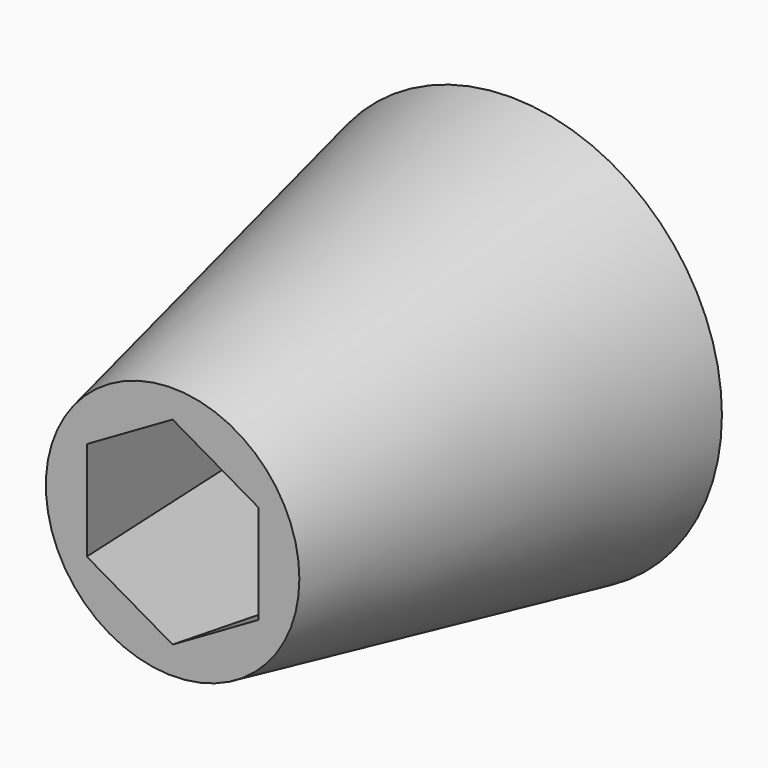
from build123d import *

# Parameters (mm, degrees)
F1_R = 63.5
F2_R = 38.1


with BuildPart() as f3:
    # F1 (on Front) → F3 section 0
    with BuildSketch(Plane.XZ):
        Circle(F1_R)
    # F2 (on offset) → F3 section 1
    with BuildSketch(Plane.XZ.offset(127)):
        Circle(F2_R)
    loft()

    # F5 (on Front) → F6 section 0
    with BuildSketch(Plane.XZ):
        Polygon((43.696836, -25.22838), (43.696836, 25.22838), (0, 50.45676), (-43.696836, 25.22838), (-43.696836, -25.22838), (0, -50.45676), align=None)
    # F4 (on offset) → F6 section 1
    with BuildSketch(Plane.XZ.offset(127)):
        Polygon((25.782343, -14.885443), (25.782343, 14.885443), (0, 29.770885), (-25.782343, 14.885443), (-25.782343, -14.885443), (0, -29.770885), align=None)
    loft(mode=Mode.SUBTRACT)


solid = f3.part
